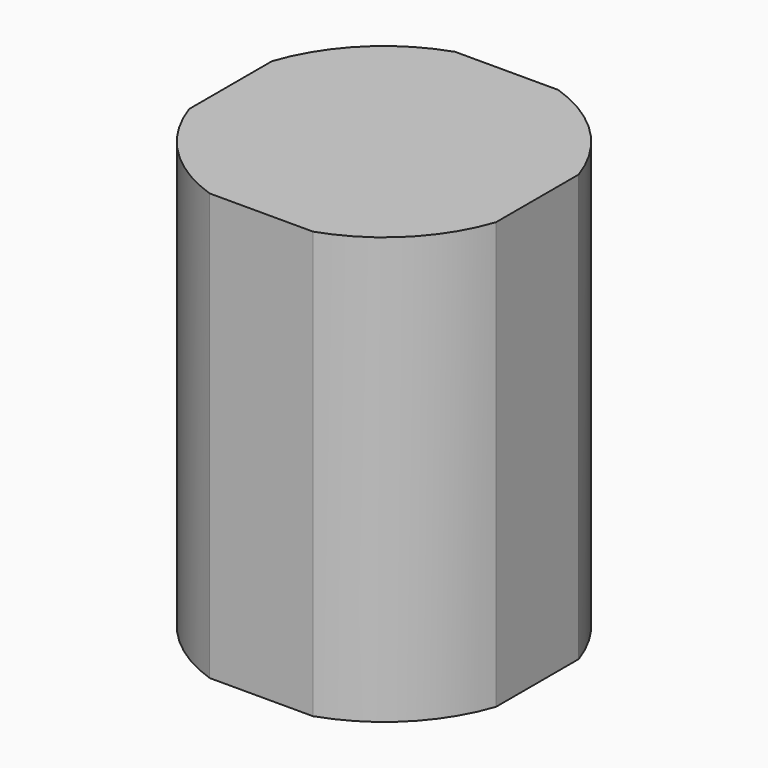
from build123d import *

# Parameters (mm, degrees)
F0_R     = 279.4
F1_DEPTH = 736.6
F2_W     = 195.749157
F2_H     = 25.4
F2_W_2   = 25.4
F2_H_2   = 195.749157
F3_DEPTH = 1010.92


with BuildPart() as f1:
    # F0 (on Top) → F1 (new body)
    with BuildSketch(Plane.XY):
        Circle(F0_R)
    extrude(amount=F1_DEPTH)

    # F2 (on Top) → F3 (cut)
    with BuildSketch(Plane.XY):
        with Locations((0.382937, 277.498556)):
            Rectangle(F2_W, F2_H)
        with Locations((-277.498556, 0.382937)):
            Rectangle(F2_W_2, F2_H_2)
        with Locations((-0.382937, -277.498556)):
            Rectangle(F2_W, F2_H)
        with Locations((277.498556, -0.382937)):
            Rectangle(F2_W_2, F2_H_2)
    extrude(amount=F3_DEPTH, mode=Mode.SUBTRACT)


solid = f1.part
